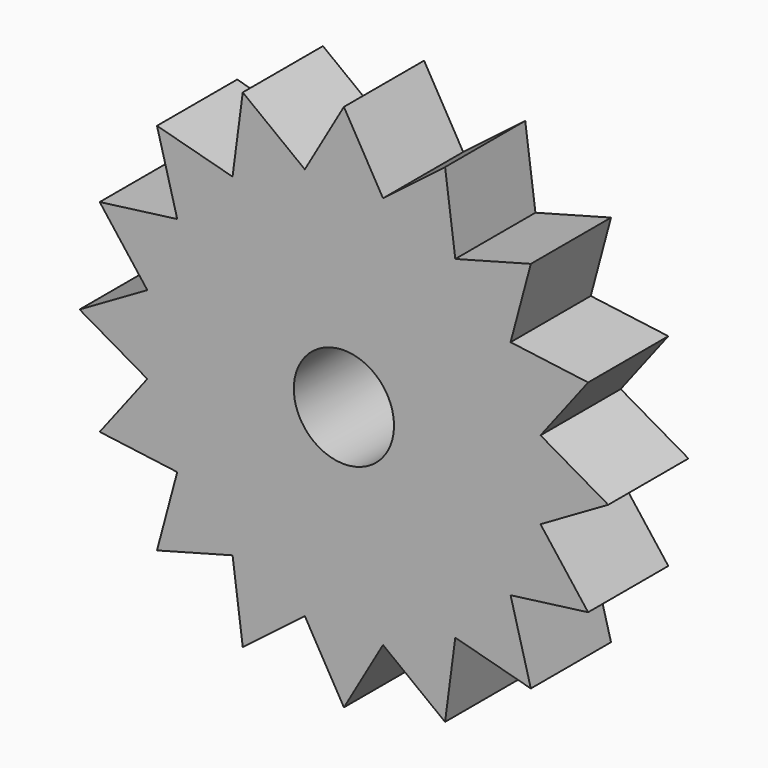
from build123d import *

# Parameters (mm, degrees)
F0_R     = 2
F1_DEPTH = 2


with BuildPart() as f1:
    # F0 (on Front) → F1 (new body, symmetric)
    with BuildSketch(Plane.XZ):
        with BuildLine():
            ThreePointArc((7.8462822432, -1.5607225761), (7.9614778134, -0.7841371226), (8, 0))
            ThreePointArc((8, 0), (7.9614778134, 0.7841371226), (7.8462822432, 1.5607225761))
            ThreePointArc((7.8462822432, 1.5607225761), (7.3910362601, 3.0614674589), (6.6517568984, 4.4445618642))
            ThreePointArc((6.6517568984, 4.4445618642), (5.6568542495, 5.6568542495), (4.4445618642, 6.6517568984))
            ThreePointArc((4.4445618642, 6.6517568984), (3.0614674589, 7.3910362601), (1.5607225761, 7.8462822432))
            ThreePointArc((1.5607225761, 7.8462822432), (0, 8), (-1.5607225761, 7.8462822432))
            ThreePointArc((-1.5607225761, 7.8462822432), (-3.0614674589, 7.3910362601), (-4.4445618642, 6.6517568984))
            ThreePointArc((-4.4445618642, 6.6517568984), (-5.6568542495, 5.6568542495), (-6.6517568984, 4.4445618642))
            ThreePointArc((-6.6517568984, 4.4445618642), (-7.3910362601, 3.0614674589), (-7.8462822432, 1.5607225761))
            ThreePointArc((-7.8462822432, 1.5607225761), (-8, 0), (-7.8462822432, -1.5607225761))
            ThreePointArc((-7.8462822432, -1.5607225761), (-7.3910362601, -3.0614674589), (-6.6517568984, -4.4445618642))
            ThreePointArc((-6.6517568984, -4.4445618642), (-5.6568542495, -5.6568542495), (-4.4445618642, -6.6517568984))
            ThreePointArc((-4.4445618642, -6.6517568984), (-3.0614674589, -7.3910362601), (-1.5607225761, -7.8462822432))
            ThreePointArc((-1.5607225761, -7.8462822432), (0, -8), (1.5607225761, -7.8462822432))
            ThreePointArc((1.5607225761, -7.8462822432), (3.0614674589, -7.3910362601), (4.4445618642, -6.6517568984))
            ThreePointArc((4.4445618642, -6.6517568984), (5.6568542495, -5.6568542495), (6.6517568984, -4.4445618642))
            ThreePointArc((6.6517568984, -4.4445618642), (7.3910362601, -3.0614674589), (7.8462822432, -1.5607225761))
        make_face()
        Circle(F0_R, mode=Mode.SUBTRACT)
        with BuildLine():
            ThreePointArc((7.8462822432, 1.5607225761), (7.9614778134, 0.7841371226), (8, 0))
            ThreePointArc((8, 0), (7.9614778134, -0.7841371226), (7.8462822432, -1.5607225761))
            Line((7.8462822432, -1.5607225761), (10.5495330416, 0))
            Line((10.5495330416, 0), (7.8462822432, 1.5607225761))
        make_face()
        with BuildLine():
            ThreePointArc((6.6517568984, 4.4445618642), (7.3910362601, 3.0614674589), (7.8462822432, 1.5607225761))
            Line((7.8462822432, 1.5607225761), (9.7464976547, 4.0371315142))
            Line((9.7464976547, 4.0371315142), (6.6517568984, 4.4445618642))
        make_face()
        with BuildLine():
            Line((9.7464976547, -4.0371315142), (7.8462822432, -1.5607225761))
            ThreePointArc((7.8462822432, -1.5607225761), (7.3910362601, -3.0614674589), (6.6517568984, -4.4445618642))
            Line((6.6517568984, -4.4445618642), (9.7464976547, -4.0371315142))
        make_face()
        with BuildLine():
            ThreePointArc((4.4445618642, 6.6517568984), (5.6568542495, 5.6568542495), (6.6517568984, 4.4445618642))
            Line((6.6517568984, 4.4445618642), (7.4596463521, 7.4596463521))
            Line((7.4596463521, 7.4596463521), (4.4445618642, 6.6517568984))
        make_face()
        with BuildLine():
            Line((7.4596463521, -7.4596463521), (6.6517568984, -4.4445618642))
            ThreePointArc((6.6517568984, -4.4445618642), (5.6568542495, -5.6568542495), (4.4445618642, -6.6517568984))
            Line((4.4445618642, -6.6517568984), (7.4596463521, -7.4596463521))
        make_face()
        with BuildLine():
            ThreePointArc((1.5607225761, 7.8462822432), (3.0614674589, 7.3910362601), (4.4445618642, 6.6517568984))
            Line((4.4445618642, 6.6517568984), (4.0371315142, 9.7464976547))
            Line((4.0371315142, 9.7464976547), (1.5607225761, 7.8462822432))
        make_face()
        with BuildLine():
            Line((4.0371315142, -9.7464976547), (4.4445618642, -6.6517568984))
            ThreePointArc((4.4445618642, -6.6517568984), (3.0614674589, -7.3910362601), (1.5607225761, -7.8462822432))
            Line((1.5607225761, -7.8462822432), (4.0371315142, -9.7464976547))
        make_face()
        with BuildLine():
            ThreePointArc((-1.5607225761, 7.8462822432), (0, 8), (1.5607225761, 7.8462822432))
            Line((1.5607225761, 7.8462822432), (0, 10.5495330416))
            Line((0, 10.5495330416), (-1.5607225761, 7.8462822432))
        make_face()
        with BuildLine():
            Line((0, -10.5495330416), (1.5607225761, -7.8462822432))
            ThreePointArc((1.5607225761, -7.8462822432), (0, -8), (-1.5607225761, -7.8462822432))
            Line((-1.5607225761, -7.8462822432), (0, -10.5495330416))
        make_face()
        with BuildLine():
            ThreePointArc((-4.4445618642, 6.6517568984), (-3.0614674589, 7.3910362601), (-1.5607225761, 7.8462822432))
            Line((-1.5607225761, 7.8462822432), (-4.0371315142, 9.7464976547))
            Line((-4.0371315142, 9.7464976547), (-4.4445618642, 6.6517568984))
        make_face()
        with BuildLine():
            Line((-4.0371315142, -9.7464976547), (-1.5607225761, -7.8462822432))
            ThreePointArc((-1.5607225761, -7.8462822432), (-3.0614674589, -7.3910362601), (-4.4445618642, -6.6517568984))
            Line((-4.4445618642, -6.6517568984), (-4.0371315142, -9.7464976547))
        make_face()
        with BuildLine():
            ThreePointArc((-6.6517568984, 4.4445618642), (-5.6568542495, 5.6568542495), (-4.4445618642, 6.6517568984))
            Line((-4.4445618642, 6.6517568984), (-7.4596463521, 7.4596463521))
            Line((-7.4596463521, 7.4596463521), (-6.6517568984, 4.4445618642))
        make_face()
        with BuildLine():
            Line((-7.4596463521, -7.4596463521), (-4.4445618642, -6.6517568984))
            ThreePointArc((-4.4445618642, -6.6517568984), (-5.6568542495, -5.6568542495), (-6.6517568984, -4.4445618642))
            Line((-6.6517568984, -4.4445618642), (-7.4596463521, -7.4596463521))
        make_face()
        with BuildLine():
            ThreePointArc((-7.8462822432, 1.5607225761), (-7.3910362601, 3.0614674589), (-6.6517568984, 4.4445618642))
            Line((-6.6517568984, 4.4445618642), (-9.7464976547, 4.0371315142))
            Line((-9.7464976547, 4.0371315142), (-7.8462822432, 1.5607225761))
        make_face()
        with BuildLine():
            Line((-9.7464976547, -4.0371315142), (-6.6517568984, -4.4445618642))
            ThreePointArc((-6.6517568984, -4.4445618642), (-7.3910362601, -3.0614674589), (-7.8462822432, -1.5607225761))
            Line((-7.8462822432, -1.5607225761), (-9.7464976547, -4.0371315142))
        make_face()
        with BuildLine():
            ThreePointArc((-7.8462822432, -1.5607225761), (-8, 0), (-7.8462822432, 1.5607225761))
            Line((-7.8462822432, 1.5607225761), (-10.5495330416, 0))
            Line((-10.5495330416, 0), (-7.8462822432, -1.5607225761))
        make_face()
    extrude(amount=F1_DEPTH, both=True)


solid = f1.part
